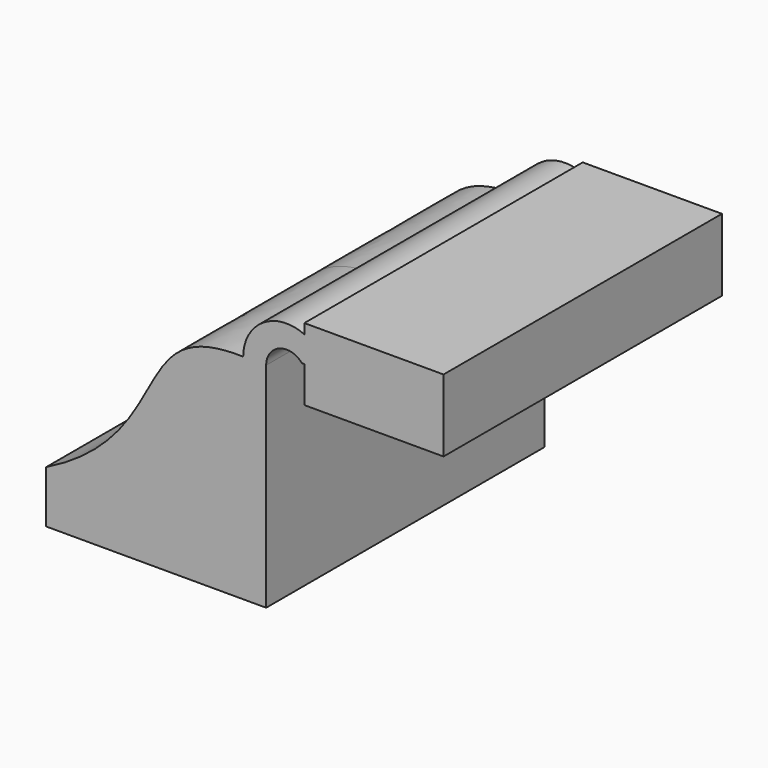
from build123d import *

# Parameters (mm, degrees)
F0_W     = 25.4
F0_H     = 13.1786093116
F1_DEPTH = 63.5


with BuildPart() as f1:
    # F0 (on Front) → F1 (new body, symmetric)
    with BuildSketch(Plane.XZ):
        Polygon((-40.1599369943, -9.525), (40.1599369943, -9.525), (40.1599369943, 9.525), (31.7779369652, 9.525), (-40.1599369943, 9.525), align=None)
        with BuildLine():
            Line((31.7779369652, 9.525), (40.1599369943, 9.525))
            Line((40.1599369943, 9.525), (40.1599369943, 68.4023214343))
            ThreePointArc((40.1599369943, 68.4023214343), (45.0018921637, 75.3878619554), (53.2423900817, 73.3054354144))
            Line((53.2423900817, 73.3054354144), (54.1008195247, 73.3054354144))
            Line((54.1008195247, 73.3054354144), (54.1008195247, 82.8580701694))
            ThreePointArc((54.1008195247, 82.8580701694), (39.0089250876, 81.6996873131), (31.7779369652, 68.4023214343))
            Line((31.7779369652, 68.4023214343), (31.7779369652, 9.525))
        make_face()
        with BuildLine():
            add(Edge.make_bspline(
                [(-40.1599369943, 9.525), (8.3736795932, 33.7357372046), (-11.0195567831, 69.6132257581), (31.7779369652, 68.4023214343)],
                knots=[0, 0, 0, 0, 92.960188732, 92.960188732, 92.960188732, 92.960188732], degree=3))
            Line((-40.1599369943, 9.525), (31.7779369652, 9.525))
            Line((31.7779369652, 9.525), (31.7779369652, 68.4023214343))
        make_face()
        with BuildLine():
            ThreePointArc((56.2499082782, 81.6874354435), (55.198002297, 82.3143130986), (54.1008195247, 82.8580701694))
            Line((54.1008195247, 82.8580701694), (54.1008195247, 73.3054354144))
            Line((54.1008195247, 73.3054354144), (79.5008195247, 73.3054354144))
            Line((79.5008195247, 73.3054354144), (79.5008195247, 81.6874354435))
            Line((79.5008195247, 81.6874354435), (56.2499082782, 81.6874354435))
        make_face()
        with BuildLine():
            Line((54.1008195247, 86.484044726), (54.1008195247, 82.8580701694))
            ThreePointArc((54.1008195247, 82.8580701694), (55.198002297, 82.3143130986), (56.2499082782, 81.6874354435))
            Line((56.2499082782, 81.6874354435), (79.5008195247, 81.6874354435))
            Line((79.5008195247, 81.6874354435), (79.5008195247, 86.484044726))
            Line((79.5008195247, 86.484044726), (54.1008195247, 86.484044726))
        make_face()
        with Locations((66.8008195247, 66.7161307586)):
            Rectangle(F0_W, F0_H)
        Polygon((79.5008195247, 81.6874354435), (79.5008195247, 73.3054354144), (79.5008195247, 60.1268261029), (104.9008195247, 60.1268261029), (104.9008195247, 86.484044726), (79.5008195247, 86.484044726), align=None)
    extrude(amount=F1_DEPTH, both=True)


solid = f1.part
